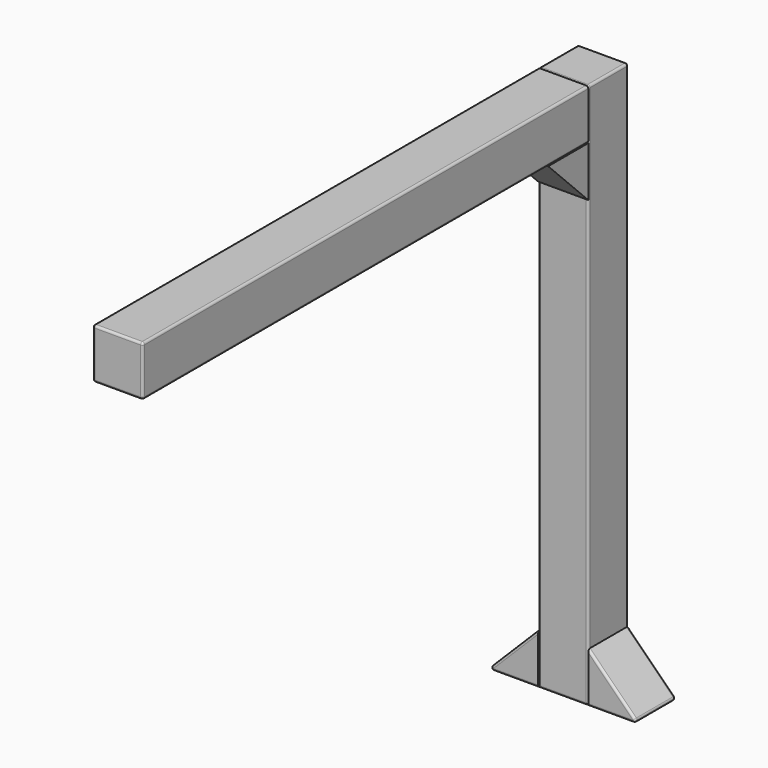
from build123d import *

# Parameters (mm, degrees)
F0_W     = 45
F0_H     = 45
F1_DEPTH = 490
F3_DEPTH = 45
F4_W     = 45
F4_H     = 45
F5_DEPTH = 500
F6_R     = 2
F6_2_R   = 2
F6_3_R   = 2
F6_4_R   = 2
F8_DEPTH = 45


with BuildPart() as f1:
    # F0 (on Top) → F1 (new body)
    with BuildSketch(Plane.XY):
        with Locations((22.5, 22.5)):
            Rectangle(F0_W, F0_H)
    extrude(amount=F1_DEPTH)

    # F6#2
    f6_2_edges = [f1.edges().sort_by_distance(p)[0] for p in [
        (45, 0, 245),
        (45, 45, 245),
        (45, 22.5, 490),
        (22.5, 0, 490),
        (0, 22.5, 490),
        (22.5, 45, 490),
        (0, 0, 245),
        (0, 45, 245),
        (22.5, 0, 0),
        (22.5, 45, 0),
    ]]
    fillet(f6_2_edges, radius=F6_2_R)


with BuildPart() as f3:
    # F2 (on Front) → F3 (new body)
    with BuildSketch(Plane.XZ):
        Polygon((0, 0), (0, 45), (-45, 0), align=None)
    extrude(amount=-F3_DEPTH)

    # F6#3
    f6_3_edges = [f3.edges().sort_by_distance(p)[0] for p in [
        (-22.5, 0, 22.5),
        (-22.5, 0, 0),
        (-45, 22.5, 0),
        (-22.5, 45, 22.5),
        (-22.5, 45, 0),
    ]]
    fillet(f6_3_edges, radius=F6_3_R)


with BuildPart() as f3b:
    # F2 (on Front) → F3, piece 2 (new body)
    with BuildSketch(Plane.XZ):
        Polygon((45, 45), (45, 0), (90, 0), align=None)
    extrude(amount=-F3_DEPTH)

    # F6#4
    f6_4_edges = [f3b.edges().sort_by_distance(p)[0] for p in [
        (67.5, 0, 0),
        (67.5, 0, 22.5),
        (67.5, 45, 22.5),
        (67.5, 45, 0),
        (90, 22.5, 0),
    ]]
    fillet(f6_4_edges, radius=F6_4_R)


with BuildPart() as f5:
    # F4 (on face) → F5 (new body)
    with BuildSketch(Plane.XZ):
        with Locations((22.5, 467.5)):
            Rectangle(F4_W, F4_H)
    extrude(amount=F5_DEPTH)

    # F6
    f6_edges = [f5.edges().sort_by_distance(p)[0] for p in [
        (0, -250, 490),
        (45, -250, 490),
        (0, -250, 445),
        (0, -500, 467.5),
        (22.5, -500, 490),
        (45, -500, 467.5),
        (22.5, -500, 445),
        (45, -250, 445),
    ]]
    fillet(f6_edges, radius=F6_R)


with BuildPart() as f8:
    # F7 (on face) → F8 (new body)
    with BuildSketch(Plane(origin=(0, 0, 0), x_dir=(0, -1, 0), z_dir=(-1, 0, 0))):
        Polygon((45, 445), (0, 445), (0, 400), align=None)
    extrude(amount=-F8_DEPTH)


solid = Compound([f1.part, f3.part, f3b.part, f5.part, f8.part])
